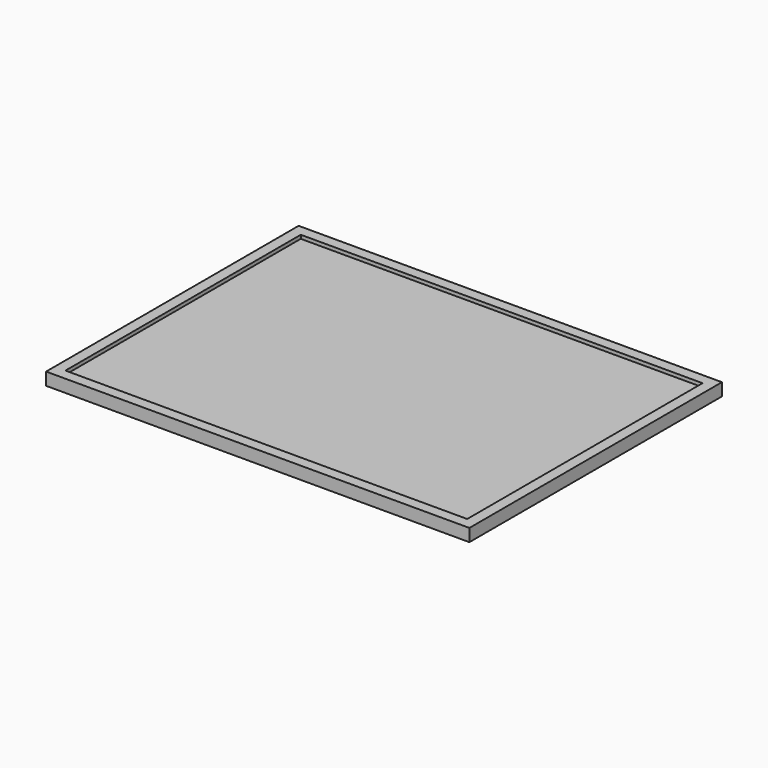
from build123d import *

# Parameters (mm, degrees)
F0_W     = 1180
F0_H     = 880
F1_DEPTH = 35
F2_R     = 3
F3_DEPTH = 20
F5_W     = 1120
F5_H     = 820
F6_DEPTH = 10


with BuildPart() as f1:
    # F0 (on Top) → F1 (new body)
    with BuildSketch(Plane.XY):
        with Locations((-536.928684, 412.954066)):
            Rectangle(F0_W, F0_H)
    extrude(amount=F1_DEPTH)

    # F2 (on face) → F3 (cut)
    with BuildSketch(Plane(origin=(0, 0, 0), x_dir=(1, 0, 0), z_dir=(0, 0, -1))):
        with Locations((-1016.928684, -82.954066)):
            Circle(F2_R)
    extrude(amount=-F3_DEPTH, mode=Mode.SUBTRACT)

    # F5 (on face) → F6 (cut)
    with BuildSketch(Plane.XY.offset(35)):
        with Locations((-536.928684, 412.954066)):
            Rectangle(F5_W, F5_H)
    extrude(amount=-F6_DEPTH, mode=Mode.SUBTRACT)


solid = f1.part
